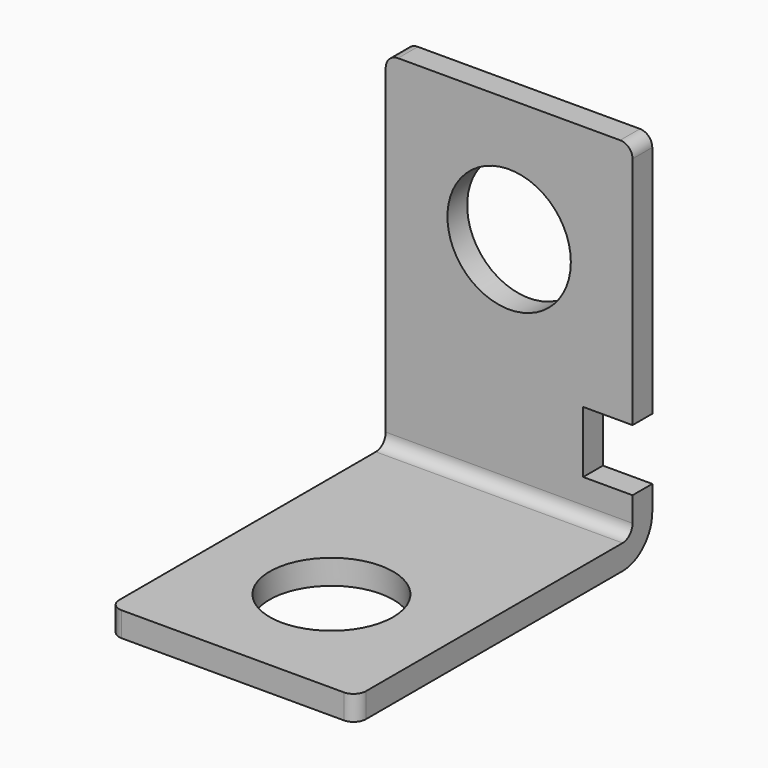
from build123d import *

# Parameters (mm, degrees)
F0_W      = 30
F0_H      = 30
F1_DEPTH  = 20
F2_R      = 3
F4_DEPTH  = 20.001
F5_R      = 1
F6_R      = 5
F7_DEPTH  = 2.001
F8_R      = 5
F9_DEPTH  = 2.001
F10_W     = 4
F10_H     = 5
F11_DEPTH = 2.001


with BuildPart() as f1:
    # F0 (on Right) → F1 (new body)
    with BuildSketch(Plane.YZ):
        Rectangle(F0_W, F0_H)
    extrude(amount=F1_DEPTH)

    # F2
    f2_edges = [f1.edges().sort_by_distance(p)[0] for p in [
        (10, 15, -15),
    ]]
    fillet(f2_edges, radius=F2_R)

    # F3 (on face) → F4 (cut, through all)
    with BuildSketch(Plane.YZ.offset(20)):
        with BuildLine():
            Line((-15, 15), (-15, -13))
            Line((-15, -13), (12, -13))
            ThreePointArc((12, -13), (12.707107, -12.707107), (13, -12))
            Line((13, -12), (13, 15))
            Line((13, 15), (-15, 15))
        make_face()
    extrude(amount=-F4_DEPTH, mode=Mode.SUBTRACT)

    # F5
    f5_edges = [f1.edges().sort_by_distance(p)[0] for p in [
        (20, -15, -14),
        (20, 14, 15),
        (0, 14, 15),
        (0, -15, -14),
    ]]
    fillet(f5_edges, radius=F5_R)

    # F6 (on face) → F7 (cut, through all)
    with BuildSketch(Plane.XY.offset(-13)):
        with Locations((10, -5)):
            Circle(F6_R)
    extrude(amount=-F7_DEPTH, mode=Mode.SUBTRACT)

    # F8 (on face) → F9 (cut, through all)
    with BuildSketch(Plane.XZ.offset(-13)):
        with Locations((10, 5)):
            Circle(F8_R)
    extrude(amount=-F9_DEPTH, mode=Mode.SUBTRACT)

    # F10 (on face) → F11 (cut, through all)
    with BuildSketch(Plane.XZ.offset(-13)):
        with Locations((18, -7.5)):
            Rectangle(F10_W, F10_H)
    extrude(amount=-F11_DEPTH, mode=Mode.SUBTRACT)


solid = f1.part
